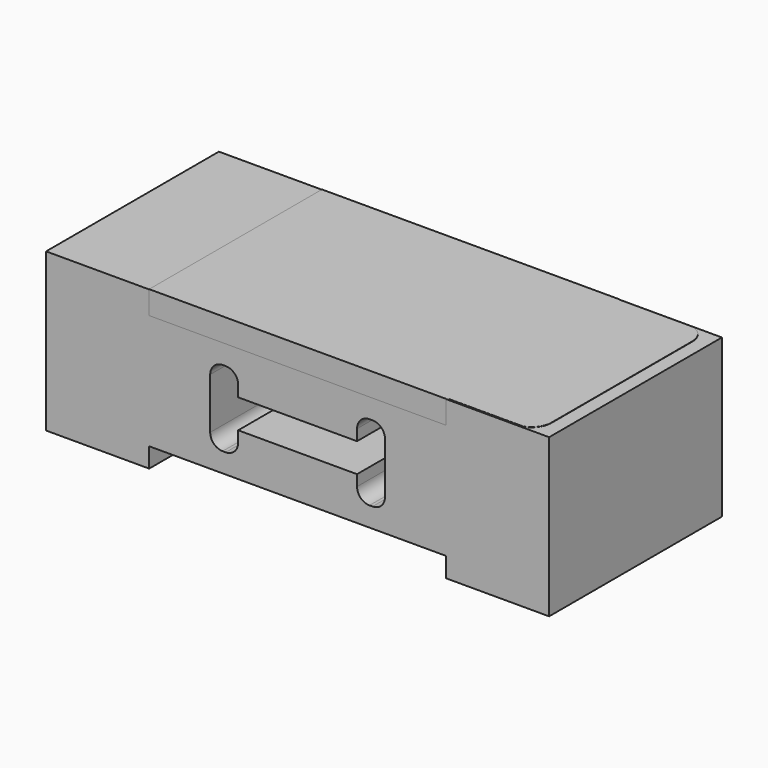
from build123d import *

# Parameters (mm, degrees)
F0_W          = 9.076156
F0_H          = 3.516816
F1_DEPTH      = 3.302
F1_DEPTH_BACK = 3.302
F2_W          = 3.633868
F2_H          = 0.886982
F3_DEPTH      = 6.8072
F5_DEPTH      = 0.7112


with BuildPart() as f1:
    # F0 (on Front) → F1 (new body, two sides)
    with BuildSketch(Plane.XZ) as f1_sk:
        Rectangle(F0_W, F0_H)
        Polygon((4.538078, 1.758408), (4.538078, -1.758408), (4.538078, -2.360844), (7.690614, -2.360844), (7.690614, 2.46226), (4.538078, 2.46226), align=None)
        Polygon((-4.538078, -2.360844), (-4.538078, -1.758408), (-4.538078, 1.758408), (-4.538078, 2.46226), (-7.690614, 2.46226), (-7.690614, -2.360844), align=None)
    extrude(amount=F1_DEPTH)
    extrude(f1_sk.sketch, amount=-F1_DEPTH_BACK)

    # F2 (on face) → F3 (cut)
    with BuildSketch(Plane.XZ.offset(3.302)):
        Rectangle(F2_W, F2_H)
        with BuildLine():
            Line((1.816934, 0.443491), (1.816934, -0.443491))
            Line((1.816934, -0.443491), (1.816934, -0.779099))
            ThreePointArc((1.816934, -0.779099), (1.928526, -1.048507), (2.197934, -1.160099))
            Line((2.197934, -1.160099), (2.291586, -1.160099))
            ThreePointArc((2.291586, -1.160099), (2.560993, -1.048507), (2.672586, -0.779099))
            Line((2.672586, -0.779099), (2.672586, 0.779099))
            ThreePointArc((2.672586, 0.779099), (2.560993, 1.048507), (2.291586, 1.160099))
            Line((2.291586, 1.160099), (2.197934, 1.160099))
            ThreePointArc((2.197934, 1.160099), (1.928526, 1.048507), (1.816934, 0.779099))
            Line((1.816934, 0.779099), (1.816934, 0.443491))
        make_face()
        with BuildLine():
            Line((-1.816934, -0.779099), (-1.816934, -0.443491))
            Line((-1.816934, -0.443491), (-1.816934, 0.443491))
            Line((-1.816934, 0.443491), (-1.816934, 0.779099))
            ThreePointArc((-1.816934, 0.779099), (-1.928526, 1.048507), (-2.197934, 1.160099))
            Line((-2.197934, 1.160099), (-2.291586, 1.160099))
            ThreePointArc((-2.291586, 1.160099), (-2.560993, 1.048507), (-2.672586, 0.779099))
            Line((-2.672586, 0.779099), (-2.672586, -0.779099))
            ThreePointArc((-2.672586, -0.779099), (-2.560993, -1.048507), (-2.291586, -1.160099))
            Line((-2.291586, -1.160099), (-2.197934, -1.160099))
            ThreePointArc((-2.197934, -1.160099), (-1.928526, -1.048507), (-1.816934, -0.779099))
        make_face()
    extrude(amount=-F3_DEPTH, mode=Mode.SUBTRACT)


with BuildPart() as f5:
    # F4 (on face) → F5 (new body)
    with BuildSketch(Plane.XY.offset(1.758408)):
        with BuildLine():
            Line((4.538078, 3.302), (-4.538078, 3.302))
            Line((-4.538078, 3.302), (-4.538078, -3.302))
            Line((-4.538078, -3.302), (4.538078, -3.302))
            Line((4.538078, -3.302), (4.585049, -3.265647))
            Line((4.585049, -3.265647), (6.870424, -3.265647))
            ThreePointArc((6.870424, -3.265647), (7.162069, -3.042545), (7.272659, -2.6924))
            Line((7.272659, -2.6924), (7.272659, 2.6924))
            ThreePointArc((7.272659, 2.6924), (7.162069, 3.042545), (6.870424, 3.265647))
            Line((6.870424, 3.265647), (4.585049, 3.265647))
            Line((4.585049, 3.265647), (4.538078, 3.302))
        make_face()
    extrude(amount=F5_DEPTH)


solid = Compound([f1.part, f5.part])
